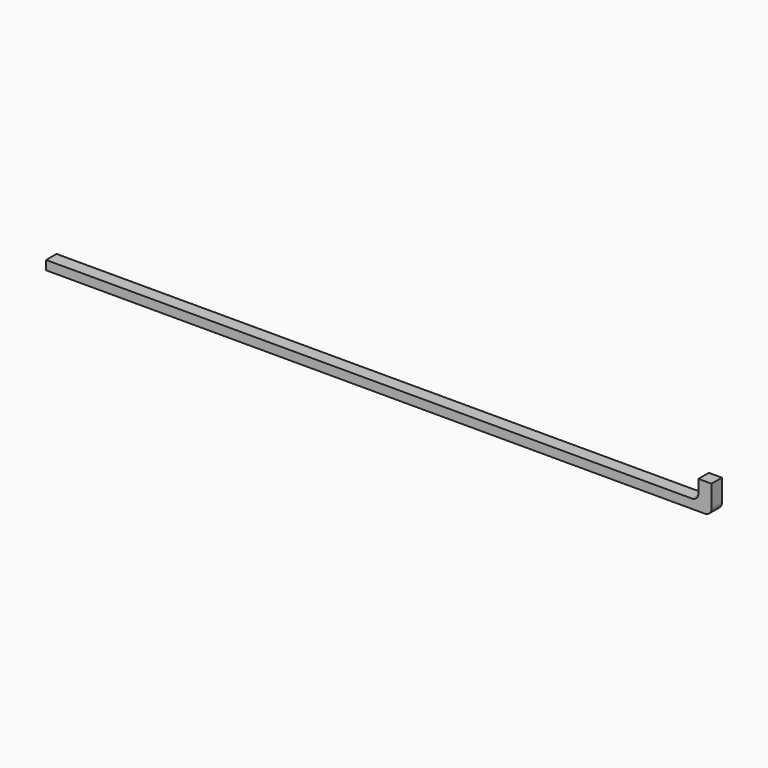
from build123d import *

# Parameters (mm, degrees)
F0_W     = 7.2222218177
F0_H     = 63.1481452084
F1_DEPTH = 25
F0_W_2   = 10
F0_H_2   = 10
F0_W_3   = 24.2652441375
F0_H_3   = 6.617795676
F3_W     = 10
F3_H     = 14.9043388665
F4_DEPTH = 10
F5_R     = 5
F6_DEPTH = 25


with BuildPart() as f1:
    # F0 (on Front) → F1 (new body)
    with BuildSketch(Plane.XZ):
        with Locations((-45.9582116171, 0.8881576359)):
            Rectangle(F0_W, F0_H)
    extrude(amount=F1_DEPTH)

    # F3 (on Front) → F4 (join)
    with BuildSketch(Plane.XZ):
        Polygon((457.7808880806, 0), (-47.8088715536, 0), (-47.8088715536, -7), (467.7808880806, -7), (467.7808880806, 0), align=None)
        with Locations((462.7808880806, 7.4521694332)):
            Rectangle(F3_W, F3_H)
    extrude(amount=F4_DEPTH)

    # F5
    f5_edges = [f1.edges().sort_by_distance(p)[0] for p in [
        (457.780888, -5, 0),
        (467.780888, -5, -7),
    ]]
    fillet(f5_edges, radius=F5_R)

    # F6 (cut): a face of the model
    f6_faces = [f1.faces().sort_by_distance(p)[0] for p in [
        (-45.9582116171, -25, 0.8881576359),
    ]]
    extrude(f6_faces, amount=-F6_DEPTH, mode=Mode.SUBTRACT)


with BuildPart() as f1b:
    # F0 (on Front) → F1, piece 2 (new body)
    with BuildSketch(Plane.XZ):
        with Locations((462.6528992917, 20.9807503391)):
            Rectangle(F0_W_2, F0_H_2)
    extrude(amount=F1_DEPTH)


with BuildPart() as f1c:
    # F0 (on Front) → F1, piece 3 (new body)
    with BuildSketch(Plane.XZ):
        with Locations((19.7482968215, 31.2228444964)):
            Rectangle(F0_W_3, F0_H_3)
    extrude(amount=F1_DEPTH)


solid = f1.part
